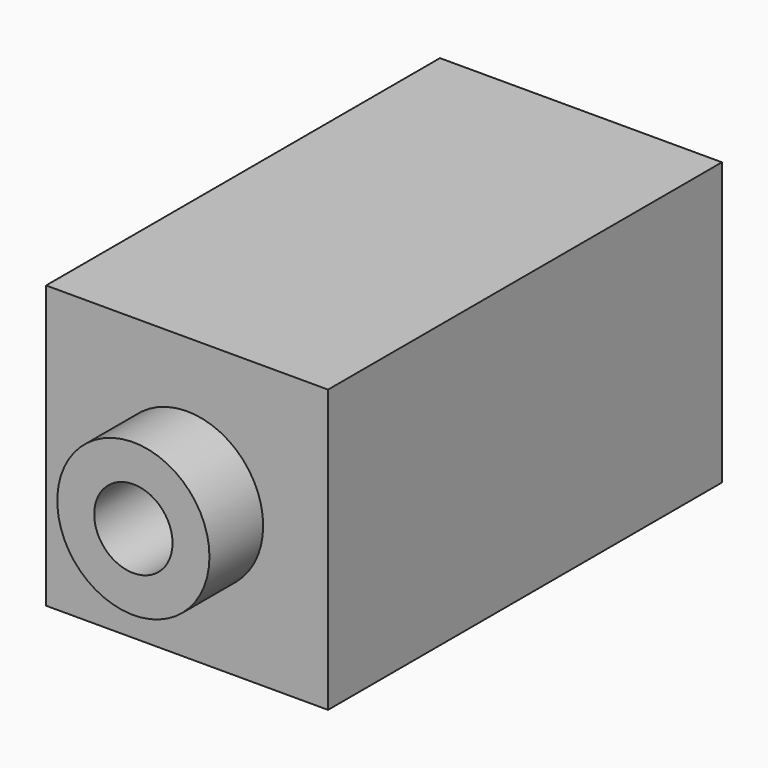
from build123d import *

# Parameters (mm, degrees)
F0_R     = 3.4
F0_R_2   = 1.75
F1_DEPTH = 25
F0_W     = 3.5
F0_H     = 1.996492
F2_DEPTH = 22


with BuildPart() as f1:
    # F0 (on Front) → F1 (new body)
    with BuildSketch(Plane.XZ):
        Circle(F0_R)
        Circle(F0_R_2, mode=Mode.SUBTRACT)
    extrude(amount=F1_DEPTH)


with BuildPart() as f2:
    # F0 (on Front) → F2 (new body)
    with BuildSketch(Plane.XZ):
        Polygon((6.3, -4.303508), (6.3, 6.3), (-3.296711, 6.3), (-6.3, 6.3), (-6.3, 4.313822), (-6.3, -6.3), (2.8, -6.3), (2.8, -4.303508), align=None)
        Circle(F0_R, mode=Mode.SUBTRACT)
        with Locations((4.55, -5.301754)):
            Rectangle(F0_W, F0_H)
    extrude(amount=F2_DEPTH)


solid = Compound([f1.part, f2.part])
